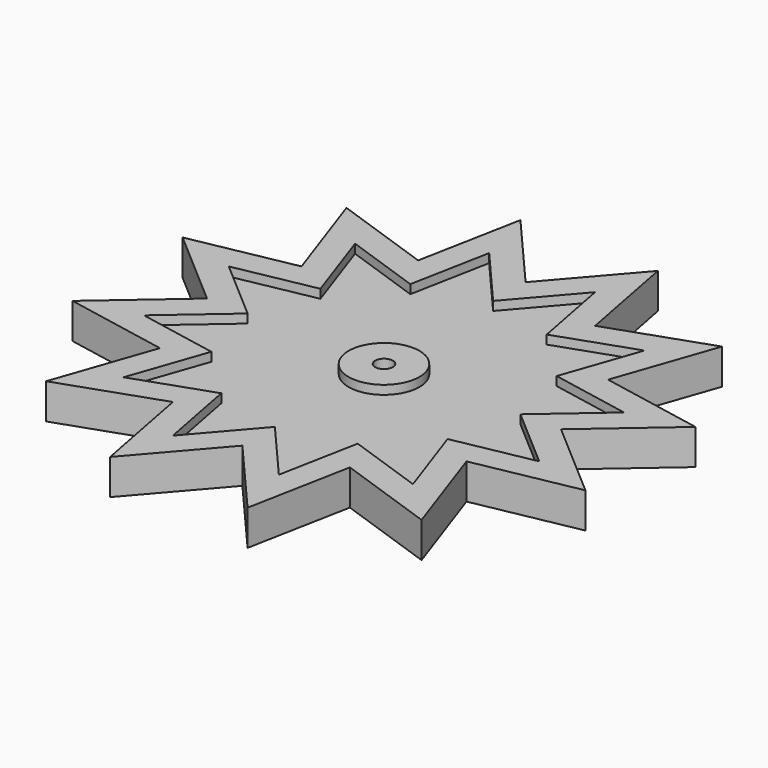
from build123d import *

# Parameters (mm, degrees)
F0_R     = 1
F1_DEPTH = 4
F2_R     = 4
F3_DEPTH = 1


with BuildPart() as f1:
    # F0 (on Top) → F1 (new body)
    with BuildSketch(Plane.XY):
        Polygon((7.764571, 28.977775), (0, 20), (-7.764571, 28.977775), (-10, 17.320508), (-21.213203, 21.213203), (-17.320508, 10), (-28.977775, 7.764571), (-20, 0), (-28.977775, -7.764571), (-17.320508, -10), (-21.213203, -21.213203), (-10, -17.320508), (-7.764571, -28.977775), (0, -20), (7.764571, -28.977775), (10, -17.320508), (21.213203, -21.213203), (17.320508, -10), (28.977775, -7.764571), (20, 0), (28.977775, 7.764571), (17.320508, 10), (21.213203, 21.213203), (10, 17.320508), align=None)
        Circle(F0_R, mode=Mode.SUBTRACT)
    extrude(amount=F1_DEPTH)

    # F2 (on face) → F3 (cut)
    with BuildSketch(Plane.XY.offset(4)):
        Polygon((-13.34884, -7.706956), (-16.348923, -16.348923), (-7.706956, -13.34884), (-5.984121, -22.333044), (0, -15.413913), (5.984121, -22.333044), (7.706956, -13.34884), (16.348923, -16.348923), (13.34884, -7.706956), (22.333044, -5.984121), (15.413913, 0), (22.333044, 5.984121), (13.34884, 7.706956), (16.348923, 16.348923), (7.706956, 13.34884), (5.984121, 22.333044), (0, 15.413913), (-5.984121, 22.333044), (-7.706956, 13.34884), (-16.348923, 16.348923), (-13.34884, 7.706956), (-22.333044, 5.984121), (-15.413913, 0), (-22.333044, -5.984121), align=None)
        Circle(F2_R, mode=Mode.SUBTRACT)
    extrude(amount=-F3_DEPTH, mode=Mode.SUBTRACT)


solid = f1.part
